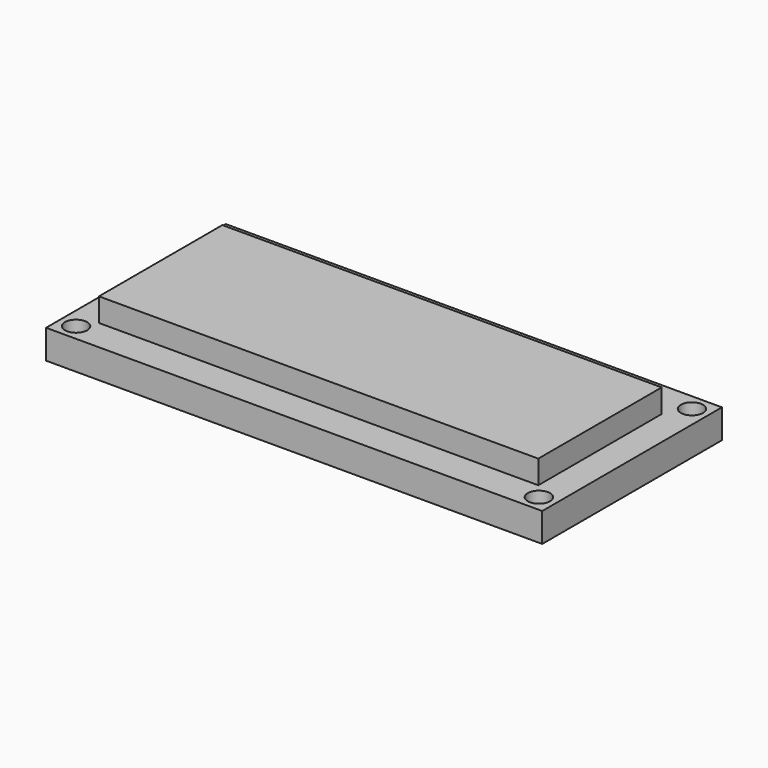
from build123d import *

# Parameters (mm, degrees)
CYLINDER002_R     = 1.8
CYLINDER002_DEPTH = 10
ARRAY003_X_COUNT  = 2
ARRAY003_X_PITCH  = 75
ARRAY003_Y_COUNT  = 2
ARRAY003_Y_PITCH  = 31
BOX008_W          = 80.4
BOX008_H          = 36.4
BOX008_DEPTH      = 4.7
BOX_W             = 71.2
BOX_H             = 25
BOX_DEPTH         = 3.8


with BuildPart() as hole_clone:
    # Cylinder002 → Cylinder002 (new body)
    with BuildSketch(Plane(origin=(3.7, 3.7, 0), x_dir=(1, 0, 0), z_dir=(0, 0, 1))):
        Circle(CYLINDER002_R)
    extrude(amount=CYLINDER002_DEPTH)

    # Array003 X: hole clone ×2


with BuildPart() as hole_clone_1:
    add(hole_clone.part)
    with Locations(*[(i * ARRAY003_X_PITCH, 0, 0) for i in range(1, ARRAY003_X_COUNT)]):
        add(hole_clone.part)

    # Array003 Y: hole clone ×2


with BuildPart() as hole_clone_2:
    add(hole_clone_1.part)
    with Locations(*[(0, i * ARRAY003_Y_PITCH, 0) for i in range(1, ARRAY003_Y_COUNT)]):
        add(hole_clone_1.part)


with BuildPart() as hole_clone_3:
    # Body placement: moved
    add(hole_clone_2.part.moved(Location((-1, -1, 0))))


with BuildPart() as under_display:
    # Box008 → Box008 (new body)
    with BuildSketch(Plane.XY):
        with Locations((40.2, 18.2)):
            Rectangle(BOX008_W, BOX008_H)
    extrude(amount=BOX008_DEPTH)


with BuildPart() as f_16x2_lcd_mockup_clone:
    # Box → Box (new body)
    with BuildSketch(Plane(origin=(4.4, 5.2, 4.7), x_dir=(1, 0, 0), z_dir=(0, 0, 1))):
        with Locations((35.6, 12.5)):
            Rectangle(BOX_W, BOX_H)
    extrude(amount=BOX_DEPTH)

    # Fusion004: union under display
    add(under_display.part)

    # Cut: cut hole clone
    add(hole_clone_3.part, mode=Mode.SUBTRACT)


with BuildPart() as f_16x2_lcd_mockup_clone_1:
    # Body002 placement: moved
    add(f_16x2_lcd_mockup_clone.part.moved(Location((0, 22, 46))))


solid = f_16x2_lcd_mockup_clone_1.part
